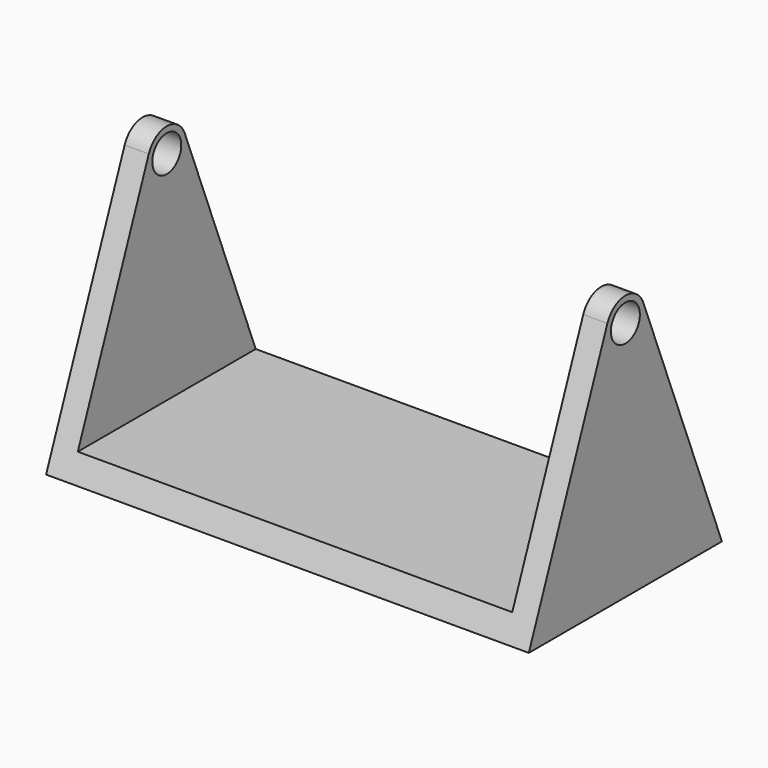
from build123d import *

# Parameters (mm, degrees)
F0_R     = 9.525
F1_DEPTH = 127
F2_W     = 228.6
F2_H     = 152.4
F3_DEPTH = 113.538


with BuildPart() as f1:
    # F0 (on Right) → F1 (new body, symmetric)
    with BuildSketch(Plane.YZ):
        with BuildLine():
            ThreePointArc((-11.821697, 4.640849), (-2.361614, -12.478493), (12.7, 0))
            ThreePointArc((12.7, 0), (12.478493, 2.361614), (11.821697, 4.640849))
            ThreePointArc((11.821697, 4.640849), (0, 12.7), (-11.821697, 4.640849))
        make_face()
        Circle(F0_R, mode=Mode.SUBTRACT)
        with BuildLine():
            ThreePointArc((11.821697, 4.640849), (12.478493, 2.361614), (12.7, 0))
            ThreePointArc((12.7, 0), (-2.361614, -12.478493), (-11.821697, 4.640849))
            Line((-11.821697, 4.640849), (-63.5, -127))
            Line((-63.5, -127), (63.5, -127))
            Line((63.5, -127), (11.821697, 4.640849))
        make_face()
    extrude(amount=F1_DEPTH, both=True)

    # F2 (on Front) → F3 (cut, symmetric)
    with BuildSketch(Plane.XZ):
        with Locations((0, -38.1)):
            Rectangle(F2_W, F2_H)
    extrude(amount=F3_DEPTH, both=True, mode=Mode.SUBTRACT)


solid = f1.part
